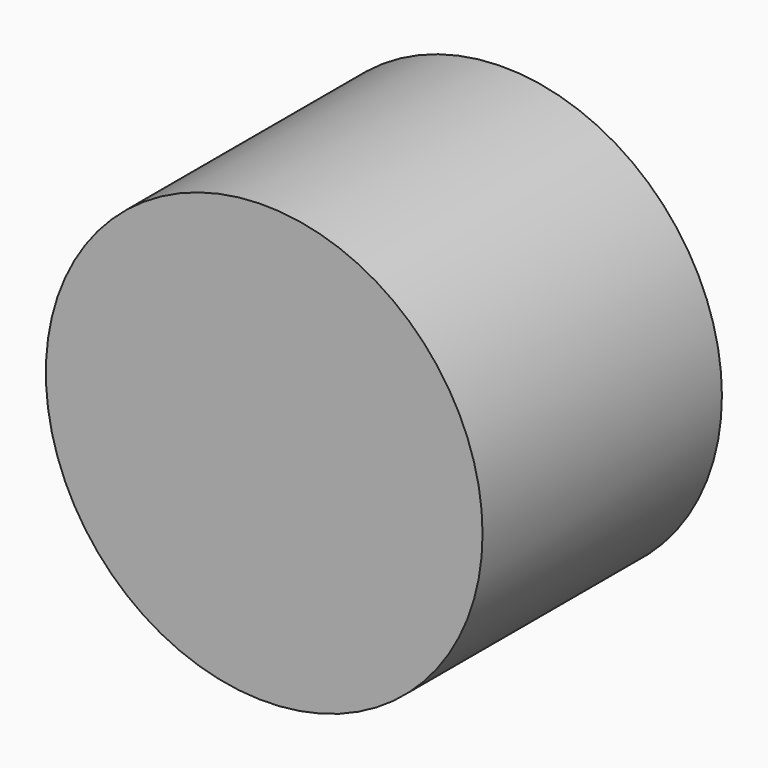
from build123d import *

# Parameters (mm, degrees)
F2_R     = 5.08
F3_R     = 92.6849433369
F4_DEPTH = 63.5


with BuildPart() as f1:
    # F0 (on Top) → F1 (revolve)
    with BuildSketch(Plane.XY):
        with BuildLine():
            add(Edge.make_bspline(
                [(0, 55.555421859), (24.8840127034, 59.7938904443), (73.3911612301, 68.0560637377), (37.2265693027, 30.0505371245), (33.7679755354, 9.4028379089)],
                knots=[0, 0, 0, 0, 0.2464873133, 0.4804850752, 0.4804850752, 0.4804850752, 0.4804850752], degree=3))
            Line((0, 55.555421859), (0, 11.5997837856))
            add(Edge.make_bspline(
                [(0, 11.5997837856), (11.795305595, 10.8945052523), (23.5906111899, 10.189226719), (33.7679755342, 9.4028379092)],
                knots=[0, 0, 0, 0, 0.1849290506, 0.1849290506, 0.1849290506, 0.1849290506], degree=3))
        make_face()
        with BuildLine():
            add(Edge.make_bspline(
                [(0, 11.5997837856), (11.795305595, 10.8945052523), (23.5906111899, 10.189226719), (33.7679755342, 9.4028379092)],
                knots=[0, 0, 0, 0, 0.1849290506, 0.1849290506, 0.1849290506, 0.1849290506], degree=3))
            Line((0, 11.5997837856), (0, -9.434199892))
            add(Edge.make_bspline(
                [(33.6469726445, -3.8624940343), (23.4971770517, -5.666295762), (11.7485885258, -7.550247827), (0, -9.434199892)],
                knots=[0.8153025479, 0.8153025479, 0.8153025479, 0.8153025479, 1, 1, 1, 1], degree=3))
            add(Edge.make_bspline(
                [(33.7679755354, 9.4028379089), (33.4862186228, 7.720757741), (32.9996571351, 3.3265179559), (33.2676792764, -1.1309282402), (33.6469726587, -3.8624940329)],
                knots=[0.4804850752, 0.4804850752, 0.4804850752, 0.4804850752, 0.4995478769, 0.5298676984, 0.5298676984, 0.5298676984, 0.5298676984], degree=3))
        make_face()
        with BuildLine():
            add(Edge.make_bspline(
                [(33.7679755342, 9.4028379092), (50.9954766221, 8.071696209), (76.3517739328, 4.9230972696), (51.0859067291, -0.7632809374), (33.6469726445, -3.8624940343)],
                knots=[0.1849290506, 0.1849290506, 0.1849290506, 0.1849290506, 0.4979634781, 0.8153025479, 0.8153025479, 0.8153025479, 0.8153025479], degree=3))
            add(Edge.make_bspline(
                [(33.7679755354, 9.4028379089), (33.4862186228, 7.720757741), (32.9996571351, 3.3265179559), (33.2676792764, -1.1309282402), (33.6469726587, -3.8624940329)],
                knots=[0.4804850752, 0.4804850752, 0.4804850752, 0.4804850752, 0.4995478769, 0.5298676984, 0.5298676984, 0.5298676984, 0.5298676984], degree=3))
        make_face()
        with BuildLine():
            add(Edge.make_bspline(
                [(33.6469726445, -3.8624940343), (23.4971770517, -5.666295762), (11.7485885258, -7.550247827), (0, -9.434199892)],
                knots=[0.8153025479, 0.8153025479, 0.8153025479, 0.8153025479, 1, 1, 1, 1], degree=3))
            Line((0, -9.434199892), (0, -47.1875108778))
            add(Edge.make_bspline(
                [(33.6469726587, -3.8624940329), (36.5407583141, -24.7027361152), (67.8249934472, -66.4419011922), (22.847107765, -53.6734257022), (0, -47.1875108778)],
                knots=[0.5298676984, 0.5298676984, 0.5298676984, 0.5298676984, 0.7611901228, 1, 1, 1, 1], degree=3))
        make_face()
    revolve(axis=Axis((0, -0.2655424178, 0), (0, -1, 0)))

    # F2
    f2_edges = [f1.edges().sort_by_distance(p)[0] for p in [
        (-33.767976, 9.402838, 0),
        (63.595971, 3.942528, 0),
        (51.504613, 57.585198, 0),
        (-33.646973, -3.862494, 0),
        (48.940167, -52.384771, 0),
    ]]
    fillet(f2_edges, radius=F2_R)


with BuildPart() as f4:
    # F3 (on Front) → F4 (new body, symmetric)
    with BuildSketch(Plane.XZ):
        Circle(F3_R)
    extrude(amount=F4_DEPTH, both=True)

    # F5: cut F1
    add(f1.part, mode=Mode.SUBTRACT)


solid = f4.part
